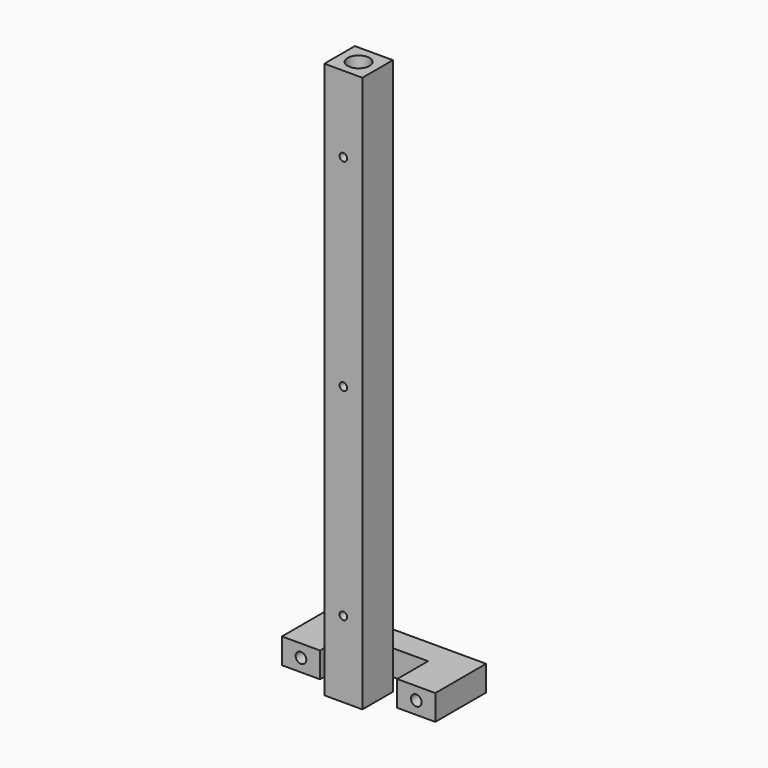
from build123d import *

# Parameters (mm, degrees)
SKETCH_W        = 15
SKETCH_H        = 15
SKETCH_R        = 4.3
PAD_DEPTH       = 219
SKETCH001_R     = 1.5
POCKET_DEPTH    = 15.001
PAD001_DEPTH    = 10
SKETCH003_R     = 2.1
POCKET001_DEPTH = 25.001
CHAMFER_SIZE    = 2


with BuildPart() as body:
    # Sketch → Pad (new body)
    with BuildSketch(Plane.XY):
        Rectangle(SKETCH_W, SKETCH_H)
        Circle(SKETCH_R, mode=Mode.SUBTRACT)
    extrude(amount=PAD_DEPTH)

    # Sketch001 (on Face1 of Pad) → Pocket (cut, through all)
    with BuildSketch(Plane.XZ.offset(7.5)):
        with Locations((0, 109.5)):
            Circle(SKETCH001_R)
        with Locations((0, 30)):
            Circle(SKETCH001_R)
        with Locations((0, 189)):
            Circle(SKETCH001_R)
    extrude(amount=-POCKET_DEPTH, mode=Mode.SUBTRACT)


with BuildPart() as body001:
    # Sketch002 → Pad001 (new body)
    with BuildSketch(Plane.XY):
        Polygon((-30.2, 0), (-15.2, 0), (-15.2, 15.2), (0, 15.2), (15.2, 15.2), (15.2, 0), (30.2, 0), (30.2, 25), (-30.2, 25), align=None)
    extrude(amount=PAD001_DEPTH)

    # Sketch003 (on Face7 of Pad001) → Pocket001 (cut, through all)
    with BuildSketch(Plane(origin=(0, 25, 0), x_dir=(-1, 0, 0), z_dir=(0, 1, 0))):
        with Locations((-22.7, 5)):
            Circle(SKETCH003_R)
        with Locations((22.7, 5)):
            Circle(SKETCH003_R)
    extrude(amount=-POCKET001_DEPTH, mode=Mode.SUBTRACT)

    # Chamfer
    chamfer_edges = [body001.edges().sort_by_distance(p)[0] for p in [
        (24.8, 25, 5),
        (-20.6, 25, 5),
    ]]
    chamfer(chamfer_edges, length=CHAMFER_SIZE)


solid = Compound([body.part, body001.part])
